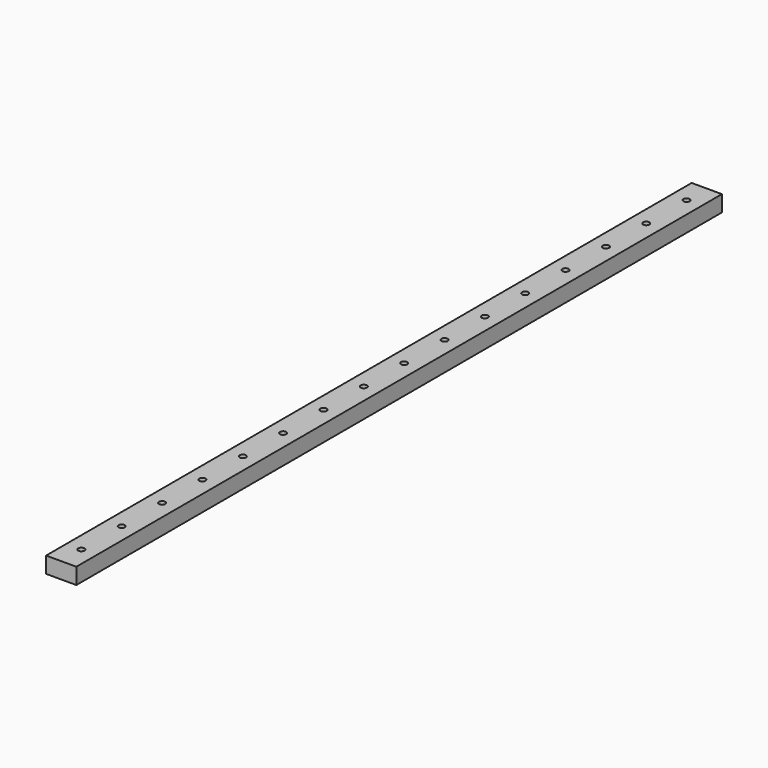
from build123d import *

# Parameters (mm, degrees)
F0_W     = 15
F0_H     = 400
F0_R     = 1.55
F1_DEPTH = 8


with BuildPart() as f1:
    # F0 (on Top) → F1 (new body)
    with BuildSketch(Plane.XY):
        Rectangle(F0_W, F0_H)
        with Locations((0, -187.5)):
            Circle(F0_R, mode=Mode.SUBTRACT)
        with Locations((0, -162.5)):
            Circle(F0_R, mode=Mode.SUBTRACT)
        with Locations((0, -137.5)):
            Circle(F0_R, mode=Mode.SUBTRACT)
        with Locations((0, -112.5)):
            Circle(F0_R, mode=Mode.SUBTRACT)
        with Locations((0, -87.5)):
            Circle(F0_R, mode=Mode.SUBTRACT)
        with Locations((0, -62.5)):
            Circle(F0_R, mode=Mode.SUBTRACT)
        with Locations((0, -37.5)):
            Circle(F0_R, mode=Mode.SUBTRACT)
        with Locations((0, -12.5)):
            Circle(F0_R, mode=Mode.SUBTRACT)
        with Locations((0, 12.5)):
            Circle(F0_R, mode=Mode.SUBTRACT)
        with Locations((0, 37.5)):
            Circle(F0_R, mode=Mode.SUBTRACT)
        with Locations((0, 62.5)):
            Circle(F0_R, mode=Mode.SUBTRACT)
        with Locations((0, 87.5)):
            Circle(F0_R, mode=Mode.SUBTRACT)
        with Locations((0, 112.5)):
            Circle(F0_R, mode=Mode.SUBTRACT)
        with Locations((0, 137.5)):
            Circle(F0_R, mode=Mode.SUBTRACT)
        with Locations((0, 162.5)):
            Circle(F0_R, mode=Mode.SUBTRACT)
        with Locations((0, 187.5)):
            Circle(F0_R, mode=Mode.SUBTRACT)
    extrude(amount=F1_DEPTH)


solid = f1.part
